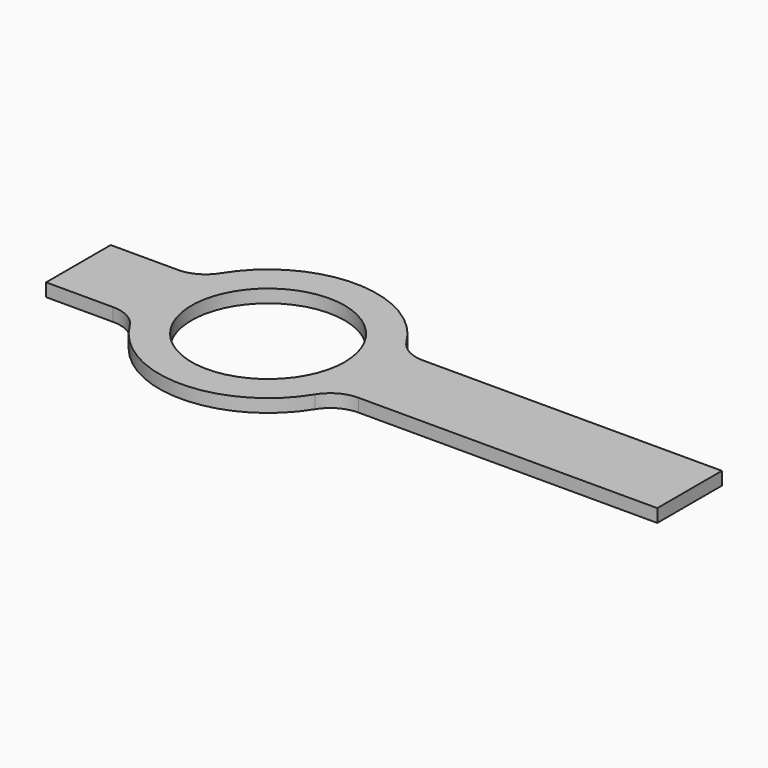
from build123d import *

# Parameters (mm, degrees)
F0_R     = 13.843
F1_DEPTH = 2.3622
F2_R     = 6.35


with BuildPart() as f1:
    # F0 (on Top) → F1 (new body)
    with BuildSketch(Plane.XY):
        with BuildLine():
            ThreePointArc((-18.280392, -7.3025), (-19.685, 0), (-18.280392, 7.3025))
            Line((-18.280392, 7.3025), (-34.29, 7.3025))
            Line((-34.29, 7.3025), (-34.29, -7.3025))
            Line((-34.29, -7.3025), (-18.280392, -7.3025))
        make_face()
        with BuildLine():
            ThreePointArc((18.280392, -7.3025), (19.330659, -3.718179), (19.685, 0))
            ThreePointArc((19.685, 0), (19.330659, 3.718179), (18.280392, 7.3025))
            ThreePointArc((18.280392, 7.3025), (0, 19.685), (-18.280392, 7.3025))
            ThreePointArc((-18.280392, 7.3025), (-19.685, 0), (-18.280392, -7.3025))
            ThreePointArc((-18.280392, -7.3025), (0, -19.685), (18.280392, -7.3025))
        make_face()
        Circle(F0_R, mode=Mode.SUBTRACT)
        with BuildLine():
            ThreePointArc((18.280392, 7.3025), (19.330659, 3.718179), (19.685, 0))
            ThreePointArc((19.685, 0), (19.330659, -3.718179), (18.280392, -7.3025))
            Line((18.280392, -7.3025), (76.2, -7.3025))
            Line((76.2, -7.3025), (76.2, 7.3025))
            Line((76.2, 7.3025), (18.280392, 7.3025))
        make_face()
    extrude(amount=F1_DEPTH)

    # F2
    f2_edges = [f1.edges().sort_by_distance(p)[0] for p in [
        (18.280392, -7.3025, 1.1811),
        (-18.280392, -7.3025, 1.1811),
        (-18.280392, 7.3025, 1.1811),
        (18.280392, 7.3025, 1.1811),
    ]]
    fillet(f2_edges, radius=F2_R)


solid = f1.part
